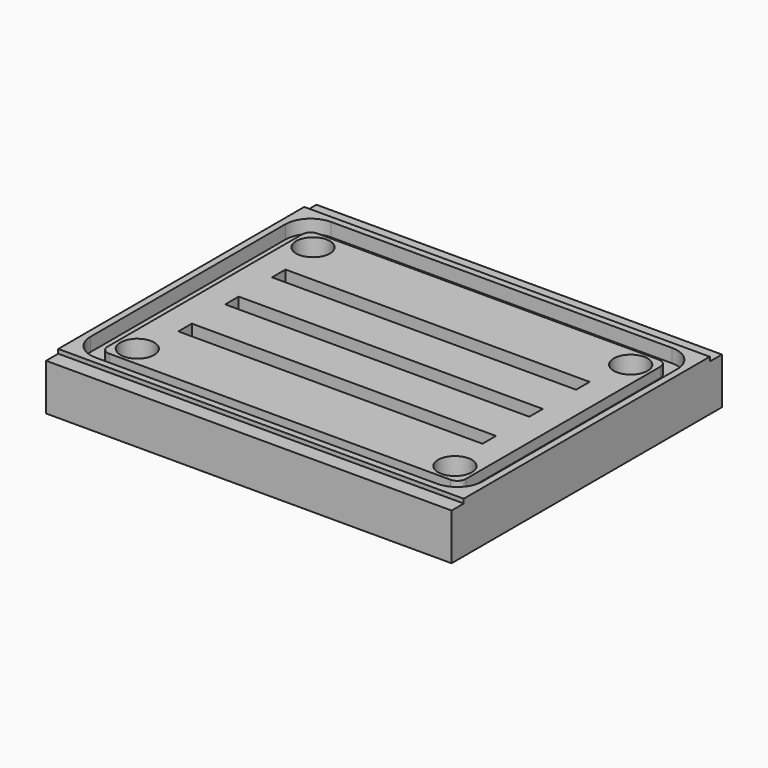
from build123d import *

# Parameters (mm, degrees)
F0_W      = 152.4
F0_H      = 115.57
F1_DEPTH  = 19.05
F3_DEPTH  = 5.08
F4_W      = 114.3
F4_H      = 6.35
F5_DEPTH  = 7.112
F6_DEPTH  = 0.79375
F7_W      = 152.4
F7_H      = 5.715
F8_DEPTH  = 17.4625
F9_DEPTH  = 1.27
F10_R     = 6.35
F11_DEPTH = 9.525
F12_R     = 4.45
F12_R_2   = 4.445
F13_DEPTH = 10.16


with BuildPart() as f1:
    # F0 (on Top) → F1 (new body)
    with BuildSketch(Plane.XY):
        with Locations((76.2, 57.785)):
            Rectangle(F0_W, F0_H)
    extrude(amount=F1_DEPTH)

    # F2 (on face) → F3 (cut)
    with BuildSketch(Plane.XY.offset(19.05)):
        with BuildLine():
            Line((140.335, 113.03), (12.065, 113.03))
            ThreePointArc((12.065, 113.03), (5.329808, 110.240192), (2.54, 103.505))
            Line((2.54, 103.505), (2.54, 12.065))
            ThreePointArc((2.54, 12.065), (5.329808, 5.329808), (12.065, 2.54))
            Line((12.065, 2.54), (140.335, 2.54))
            ThreePointArc((140.335, 2.54), (147.070192, 5.329808), (149.86, 12.065))
            Line((149.86, 12.065), (149.86, 103.505))
            ThreePointArc((149.86, 103.505), (147.070192, 110.240192), (140.335, 113.03))
        make_face()
        with BuildLine():
            ThreePointArc((8.89, 103.505), (9.819936, 105.750064), (12.065, 106.68))
            Line((12.065, 106.68), (140.335, 106.68))
            ThreePointArc((140.335, 106.68), (142.580064, 105.750064), (143.51, 103.505))
            Line((143.51, 103.505), (143.51, 12.065))
            ThreePointArc((143.51, 12.065), (142.580064, 9.819936), (140.335, 8.89))
            Line((140.335, 8.89), (12.065, 8.89))
            ThreePointArc((12.065, 8.89), (9.819936, 9.819936), (8.89, 12.065))
            Line((8.89, 12.065), (8.89, 103.505))
        make_face(mode=Mode.SUBTRACT)
    extrude(amount=-F3_DEPTH, mode=Mode.SUBTRACT)

    # F4 (on face) → F5 (cut)
    with BuildSketch(Plane.XY.offset(19.05)):
        with Locations((76.2, 57.785)):
            Rectangle(F4_W, F4_H)
        with Locations((76.2, 79.785)):
            Rectangle(F4_W, F4_H)
        with Locations((76.2, 35.785)):
            Rectangle(F4_W, F4_H)
    extrude(amount=-F5_DEPTH, mode=Mode.SUBTRACT)

    # F2 (on face) → F6 (cut)
    with BuildSketch(Plane.XY.offset(19.05)):
        with BuildLine():
            Line((140.335, 106.68), (12.065, 106.68))
            ThreePointArc((12.065, 106.68), (9.819936, 105.750064), (8.89, 103.505))
            Line((8.89, 103.505), (8.89, 12.065))
            ThreePointArc((8.89, 12.065), (9.819936, 9.819936), (12.065, 8.89))
            Line((12.065, 8.89), (140.335, 8.89))
            ThreePointArc((140.335, 8.89), (142.580064, 9.819936), (143.51, 12.065))
            Line((143.51, 12.065), (143.51, 103.505))
            ThreePointArc((143.51, 103.505), (142.580064, 105.750064), (140.335, 106.68))
        make_face()
    extrude(amount=-F6_DEPTH, mode=Mode.SUBTRACT)

    # F7 (on face) → F8 (join)
    with BuildSketch(Plane.XY):
        with Locations((76.2, -2.8575)):
            Rectangle(F7_W, F7_H)
        with Locations((76.2, 118.4275)):
            Rectangle(F7_W, F7_H)
    extrude(amount=F8_DEPTH)

    # F2 (on face) → F9 (cut)
    with BuildSketch(Plane.XY.offset(19.05)):
        with BuildLine():
            Line((140.335, 106.68), (12.065, 106.68))
            ThreePointArc((12.065, 106.68), (9.819936, 105.750064), (8.89, 103.505))
            Line((8.89, 103.505), (8.89, 12.065))
            ThreePointArc((8.89, 12.065), (9.819936, 9.819936), (12.065, 8.89))
            Line((12.065, 8.89), (140.335, 8.89))
            ThreePointArc((140.335, 8.89), (142.580064, 9.819936), (143.51, 12.065))
            Line((143.51, 12.065), (143.51, 103.505))
            ThreePointArc((143.51, 103.505), (142.580064, 105.750064), (140.335, 106.68))
        make_face()
    extrude(amount=-F9_DEPTH, mode=Mode.SUBTRACT)

    # F10 (on face) → F11 (cut)
    with BuildSketch(Plane.XY.offset(19.05)):
        with Locations((16.51, 99.06)):
            Circle(F10_R)
        with Locations((135.89, 99.06)):
            Circle(F10_R)
        with Locations((16.51, 16.51)):
            Circle(F10_R)
        with Locations((135.89, 16.51)):
            Circle(F10_R)
    extrude(amount=-F11_DEPTH, mode=Mode.SUBTRACT)

    # F12 (on face) → F13 (cut)
    with BuildSketch(Plane.XY):
        with Locations((76.2, 57.785)):
            Circle(F12_R)
        with Locations((44.45, 57.785)):
            Circle(F12_R_2)
        with Locations((53.74936, 35.33436)):
            Circle(F12_R_2)
        with Locations((76.2, 26.035)):
            Circle(F12_R_2)
        with Locations((98.65064, 35.33436)):
            Circle(F12_R_2)
        with Locations((107.95, 57.785)):
            Circle(F12_R_2)
        with Locations((98.65064, 80.23564)):
            Circle(F12_R_2)
        with Locations((76.2, 89.535)):
            Circle(F12_R_2)
        with Locations((53.74936, 80.23564)):
            Circle(F12_R_2)
    extrude(amount=F13_DEPTH, mode=Mode.SUBTRACT)


solid = f1.part
